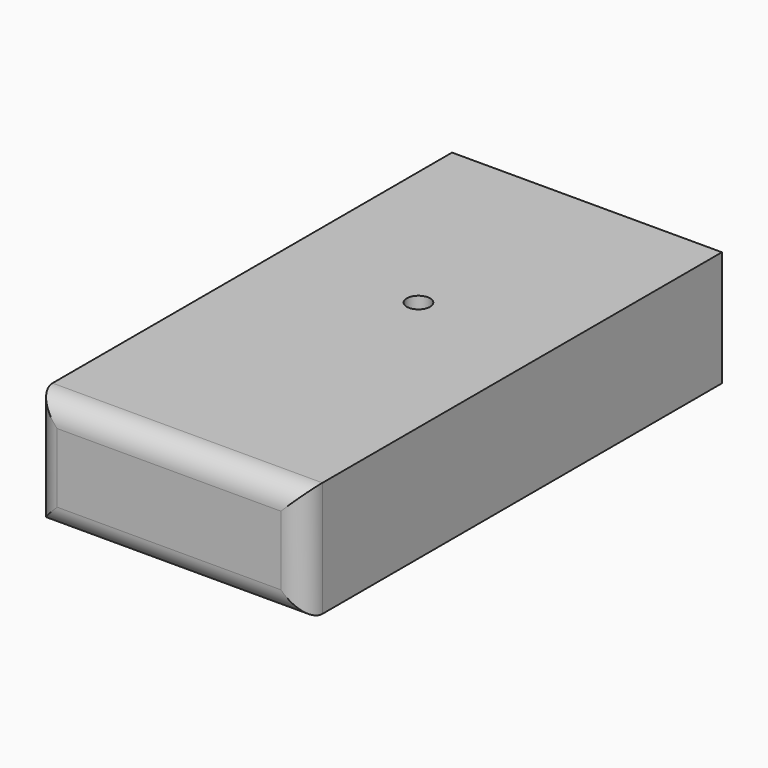
from build123d import *

# Parameters (mm, degrees)
F0_W     = 59.4127969816
F0_H     = 115.0143891573
F1_DEPTH = 25.4
F2_R     = 5.08
F4_D     = 5.1054
F4_DEPTH = 16.51
F4_TIP   = 1.5338169022


with BuildPart() as f1:
    # F0 (on Top) → F1 (new body)
    with BuildSketch(Plane.XY):
        with Locations((-14.3670565449, 11.3745853305)):
            Rectangle(F0_W, F0_H)
    extrude(amount=F1_DEPTH)

    # F2
    f2_edges = [f1.edges().sort_by_distance(p)[0] for p in [
        (-44.073455, -46.132609, 12.7),
        (-14.367057, -46.132609, 25.4),
        (15.339342, -46.132609, 12.7),
        (-14.367057, -46.132609, 0),
    ]]
    fillet(f2_edges, radius=F2_R)

    # F4
    with Locations(Plane.XY.offset(25.4)):
        with Locations((-13.6958118528, 21.6659959406)):
            Hole(F4_D / 2, depth=F4_DEPTH)
            with Locations((0, 0, -(F4_DEPTH + F4_TIP / 2))):  # 118° drill point
                Cone(0, F4_D / 2, F4_TIP, mode=Mode.SUBTRACT)


solid = f1.part
